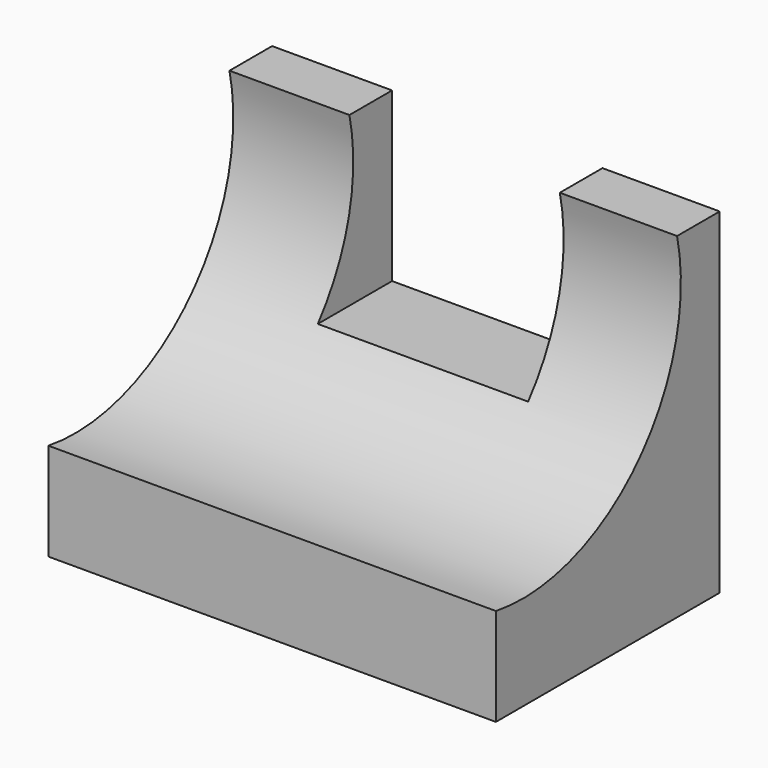
from build123d import *

# Parameters (mm, degrees)
F0_W     = 50.8
F0_H     = 38.1
F1_DEPTH = 31.75
F3_DEPTH = 50.8
F4_W     = 18.9170949161
F4_H     = 6.0472670011
F4_W_2   = 4.9618594348
F5_DEPTH = 19.05
F6_DEPTH = 25.4


with BuildPart() as f1:
    # F0 (on Front) → F1 (new body)
    with BuildSketch(Plane.XZ):
        with Locations((-6.0472674668, 14.0159087854)):
            Rectangle(F0_W, F0_H)
    extrude(amount=F1_DEPTH)

    # F2 (on face) → F3 (cut)
    with BuildSketch(Plane.YZ.offset(19.3527325332)):
        with BuildLine():
            Line((-31.75, 33.0659087854), (-31.75, 6.0472674668))
            ThreePointArc((-31.75, 6.0472674668), (-11.6942038752, 12.7030410182), (-6.0472670011, 33.0659087854))
            Line((-6.0472670011, 33.0659087854), (-31.75, 33.0659087854))
        make_face()
    extrude(amount=-F3_DEPTH, mode=Mode.SUBTRACT)

    # F4 (on face) → F5 (cut)
    with BuildSketch(Plane.XY.offset(33.0659087854)):
        with Locations((-3.4112781286, -3.0236335006)):
            Rectangle(F4_W, F4_H)
        with Locations((-15.3507553041, -3.0236335006)):
            Rectangle(F4_W_2, F4_H)
    extrude(amount=-F5_DEPTH, mode=Mode.SUBTRACT)

    # F6 (cut): a face of the model
    f6_faces = [f1.faces().sort_by_distance(p)[0] for p in [
        (-5.892207846, -6.0472670011, 18.653876051),
    ]]
    extrude(f6_faces, amount=-F6_DEPTH, mode=Mode.SUBTRACT)


solid = f1.part
